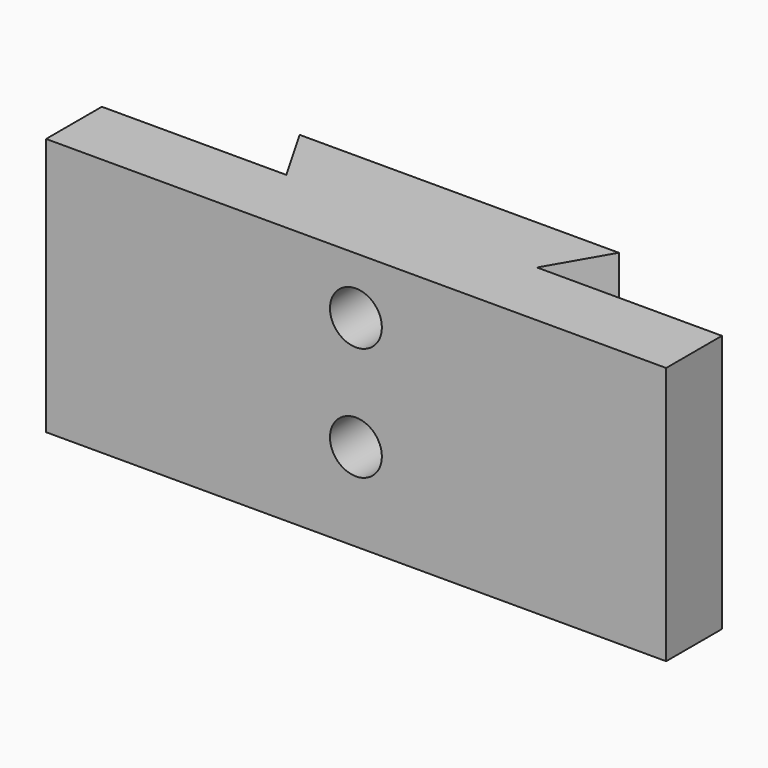
from build123d import *

# Parameters (mm, degrees)
F1_DEPTH       = 25.4
F3_D           = 4.2
F3_DEPTH       = 3.8
F3_TIP         = 1.2618073
F5_D           = 5.1054
F5_CSINK_D     = 10.4394
F5_CSINK_ANGLE = 82
F6_D           = 5.1054
F6_CSINK_D     = 10.4394
F6_CSINK_ANGLE = 82


with BuildPart() as f1:
    # F0 (on Top) → F1 (new body)
    with BuildSketch(Plane.XY):
        Polygon((15.702072531, 8.0274641514), (0, 8.0274641514), (-15.702072531, 8.0274641514), (-12.3291922584, 2.1854641514), (0, 2.1854641514), (12.3291922584, 2.1854641514), align=None)
        Polygon((0, 2.1854641514), (-12.3291922584, 2.1854641514), (-30.4818786681, 2.1854641514), (-30.4818786681, -4.6725358486), (30.5205043405, -4.6725358486), (30.5205043405, 2.1854641514), (30.4818786681, 2.1854641514), (12.3291922584, 2.1854641514), align=None)
    extrude(amount=F1_DEPTH)

    # F3
    with Locations(Plane(origin=(0, 0, 0), x_dir=(1, 0, 0), z_dir=(0, 0, -1))):
        with Locations((0, -4.0274641514)):
            Hole(F3_D / 2, depth=F3_DEPTH)
            with Locations((0, 0, -(F3_DEPTH + F3_TIP / 2))):  # 118° drill point
                Cone(0, F3_D / 2, F3_TIP, mode=Mode.SUBTRACT)

    # F5 (through all)
    with Locations(Plane(origin=(0, 8.0274641514, 0), x_dir=(-1, 0, 0), z_dir=(0, 1, 0))):
        with Locations((0, 19.812)):
            CounterSinkHole(F5_D / 2, F5_CSINK_D / 2, counter_sink_angle=F5_CSINK_ANGLE)

    # F6 (through all)
    with Locations(Plane(origin=(0, 8.0274641514, 0), x_dir=(-1, 0, 0), z_dir=(0, 1, 0))):
        with Locations((0, 8.636)):
            CounterSinkHole(F6_D / 2, F6_CSINK_D / 2, counter_sink_angle=F6_CSINK_ANGLE)


solid = f1.part
